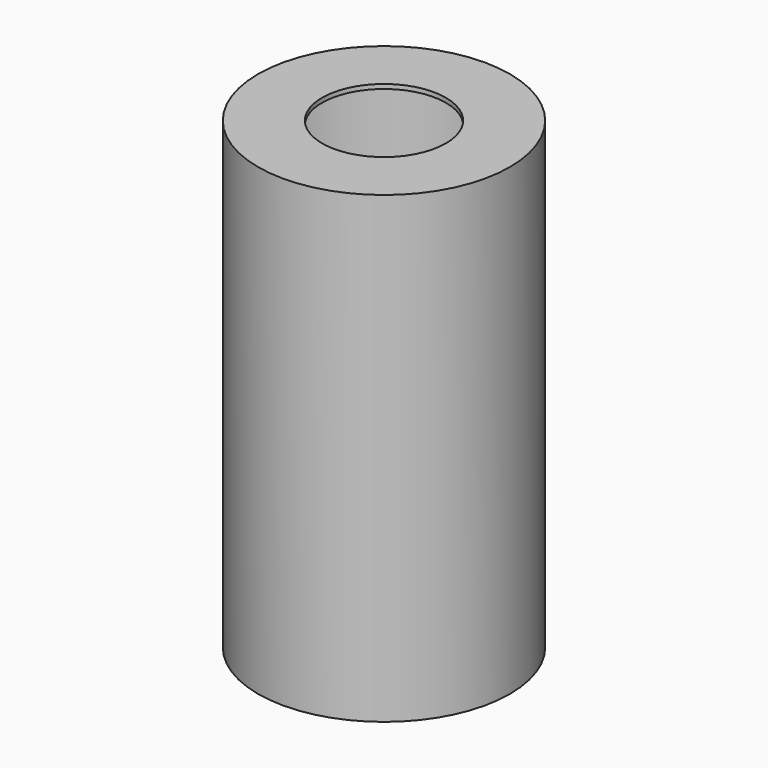
from build123d import *

# Parameters (mm, degrees)
CYLINDER001_R     = 14
CYLINDER001_DEPTH = 110
CYLINDER_R        = 28
CYLINDER_DEPTH    = 104
SKETCH_R          = 28.5
EXTRUDE_DEPTH     = 105


with BuildPart() as cylinder001:
    # Cylinder001 → Cylinder001 (new body)
    with BuildSketch(Plane.XY):
        Circle(CYLINDER001_R)
    extrude(amount=CYLINDER001_DEPTH)


with BuildPart() as cylinder:
    # Cylinder → Cylinder (new body)
    with BuildSketch(Plane.XY):
        Circle(CYLINDER_R)
    extrude(amount=CYLINDER_DEPTH)


with BuildPart() as cut001:
    # Sketch → Extrude (new body)
    with BuildSketch(Plane.XY):
        Circle(SKETCH_R)
    extrude(amount=EXTRUDE_DEPTH)

    # Cut: cut Cylinder
    add(cylinder.part, mode=Mode.SUBTRACT)

    # Cut001: cut Cylinder001
    add(cylinder001.part, mode=Mode.SUBTRACT)


solid = cut001.part
